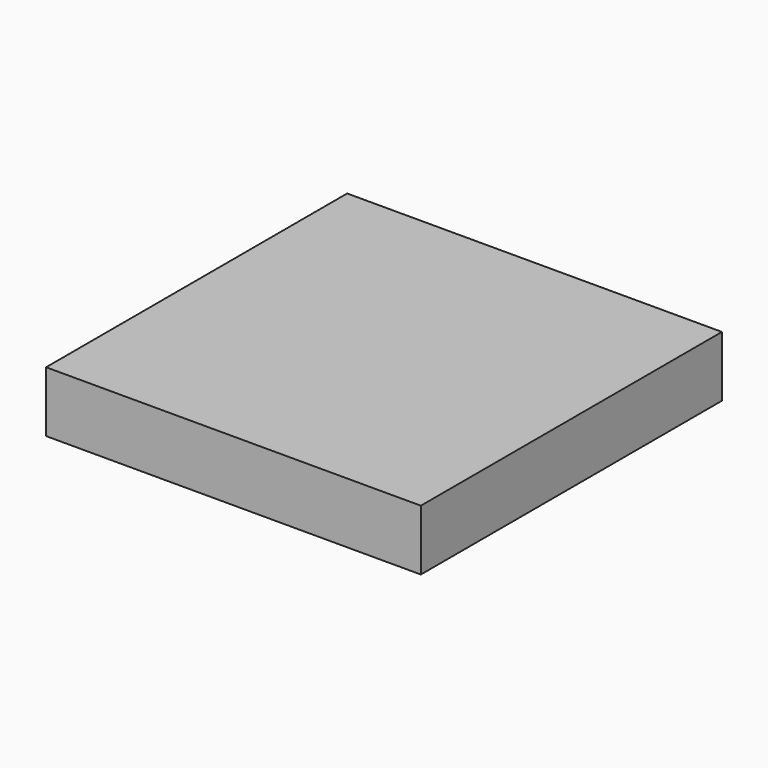
from build123d import *

# Parameters (mm, degrees)
SKETCH_W  = 102.010803
SKETCH_H  = 102.443298
PAD_DEPTH = 16.5


with BuildPart() as part:
    # Sketch → Pad (new body)
    with BuildSketch(Plane.XY):
        with Locations((51.005401, 51.221649)):
            Rectangle(SKETCH_W, SKETCH_H)
    extrude(amount=PAD_DEPTH)


solid = part.part
